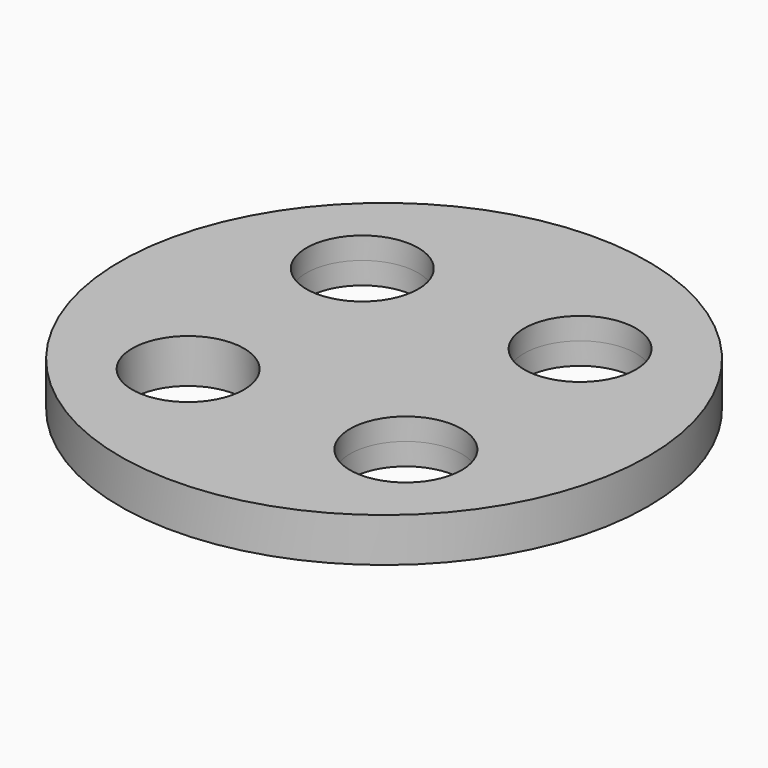
from build123d import *

# Parameters (mm, degrees)
F0_R     = 15.24
F2_DEPTH = 1.27
F1_R     = 3.2258
F3_DEPTH = 1.27


with BuildPart() as f2:
    # F0 (on Top) → F2 (new body, symmetric)
    with BuildSketch(Plane.XY):
        Circle(F0_R)
    extrude(amount=F2_DEPTH, both=True)

    # F1 (on face) → F3 (cut, symmetric)
    with BuildSketch(Plane.XY):
        with Locations((6.286179, 6.286179)):
            Circle(F1_R)
        with Locations((-6.286179, 6.286179)):
            Circle(F1_R)
        with Locations((6.286179, -6.286179)):
            Circle(F1_R)
        with Locations((-6.286179, -6.286179)):
            Circle(F1_R)
    extrude(amount=F3_DEPTH, both=True, mode=Mode.SUBTRACT)


solid = f2.part
